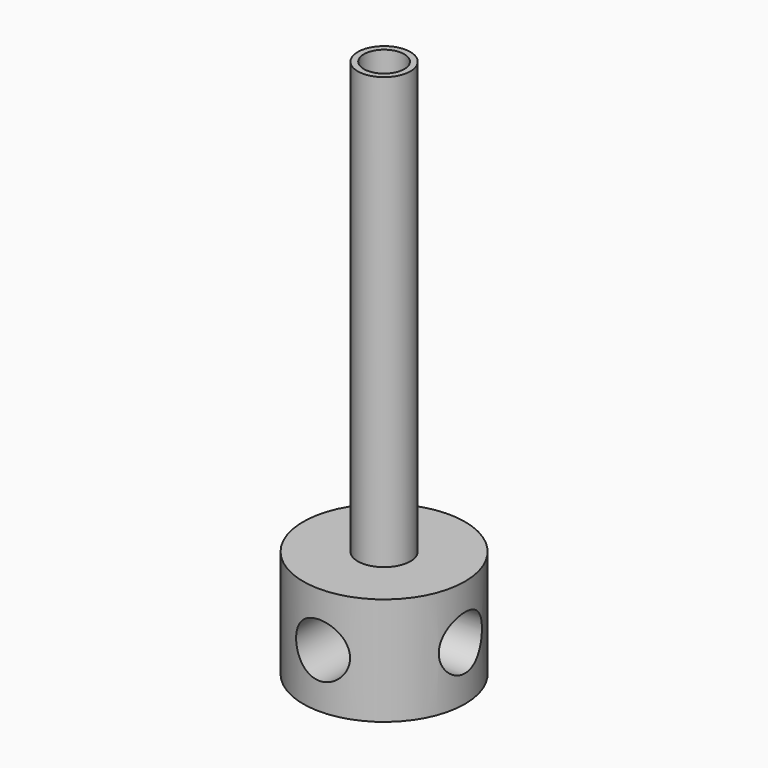
from build123d import *

# Parameters (mm, degrees)
F0_R     = 1.95
F0_R_2   = 1.5
F1_DEPTH = 40
F2_R     = 6
F2_R_2   = 1.5
F3_DEPTH = 8
F4_R     = 2
F5_DEPTH = 12.5
F6_R     = 2
F7_DEPTH = 12.5


with BuildPart() as f1:
    # F0 (on Top) → F1 (new body)
    with BuildSketch(Plane.XY):
        Circle(F0_R)
        Circle(F0_R_2, mode=Mode.SUBTRACT)
    extrude(amount=F1_DEPTH)

    # F2 (on Top) → F3 (join)
    with BuildSketch(Plane.XY):
        Circle(F2_R)
        Circle(F2_R_2, mode=Mode.SUBTRACT)
    extrude(amount=F3_DEPTH)

    # F4 (on Front) → F5 (cut, symmetric)
    with BuildSketch(Plane.XZ):
        with Locations((0, 4)):
            Circle(F4_R)
    extrude(amount=F5_DEPTH, both=True, mode=Mode.SUBTRACT)

    # F6 (on Right) → F7 (cut, symmetric)
    with BuildSketch(Plane.YZ):
        with Locations((0, 4)):
            Circle(F6_R)
    extrude(amount=F7_DEPTH, both=True, mode=Mode.SUBTRACT)


solid = f1.part
